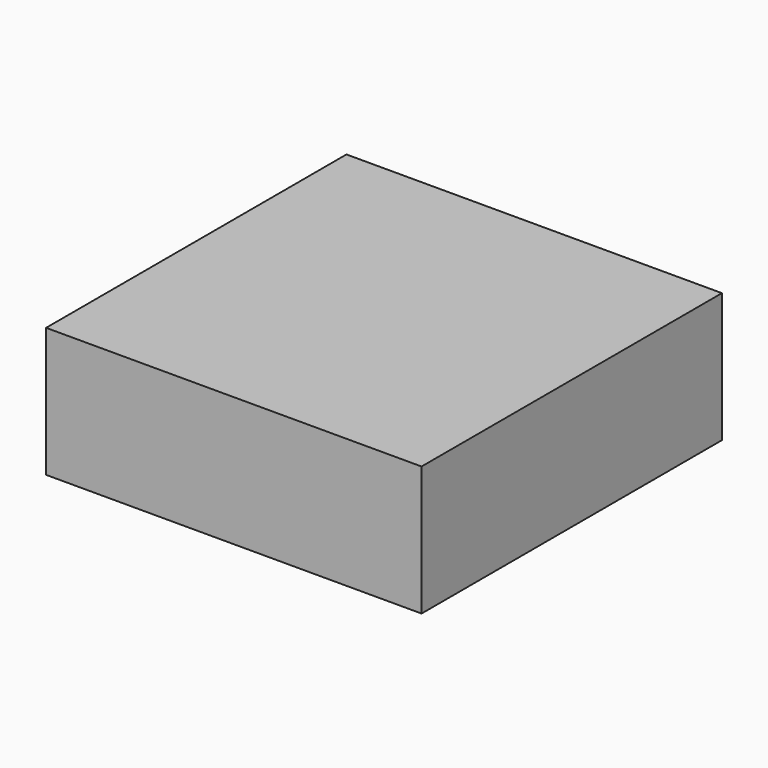
from build123d import *

# Parameters (mm, degrees)
SKETCH_W  = 0.29
SKETCH_H  = 0.29
PAD_DEPTH = 0.1


with BuildPart() as part:
    # Sketch → Pad (new body)
    with BuildSketch(Plane.XY):
        Rectangle(SKETCH_W, SKETCH_H)
    extrude(amount=PAD_DEPTH)


solid = part.part
